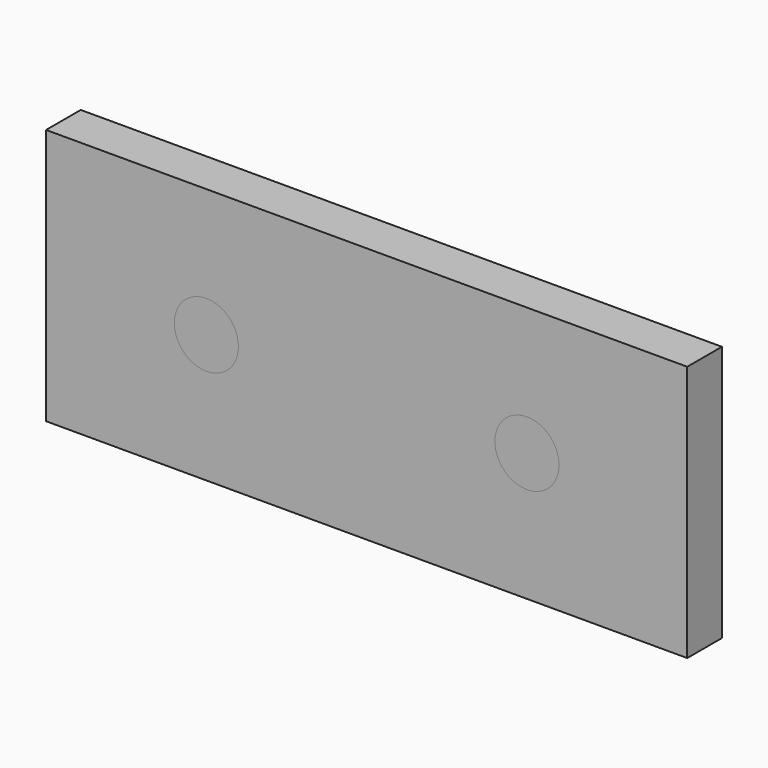
from build123d import *

# Parameters (mm, degrees)
F0_R     = 6.35
F1_DEPTH = 12.7
F0_W     = 127
F0_H     = 50.8
F2_DEPTH = 12.7
F3_SIZE  = 4.1148


with BuildPart() as f1:
    # F0 (on Front) → F1 (new body)
    with BuildSketch(Plane.XZ):
        with Locations((-31.75, 0)):
            Circle(F0_R)
    extrude(amount=F1_DEPTH)


with BuildPart() as f1b:
    # F0 (on Front) → F1, piece 2 (new body)
    with BuildSketch(Plane.XZ):
        with Locations((31.75, 0)):
            Circle(F0_R)
    extrude(amount=F1_DEPTH)


with BuildPart() as f2:
    # F0 (on Front) → F2 (new body)
    with BuildSketch(Plane.XZ):
        Rectangle(F0_W, F0_H)
        with Locations((-31.75, 0)):
            Circle(F0_R, mode=Mode.SUBTRACT)
        with Locations((31.75, 0)):
            Circle(F0_R, mode=Mode.SUBTRACT)
    extrude(amount=F2_DEPTH)

    # F3
    f3_edges = [f2.edges().sort_by_distance(p)[0] for p in [
        (63.5, 0, 0),
        (0, 0, 25.4),
        (-63.5, 0, 0),
        (0, 0, -25.4),
        (-38.1, 0, 0),
        (25.4, 0, 0),
    ]]
    chamfer(f3_edges, length=F3_SIZE)


solid = Compound([f1.part, f1b.part, f2.part])
